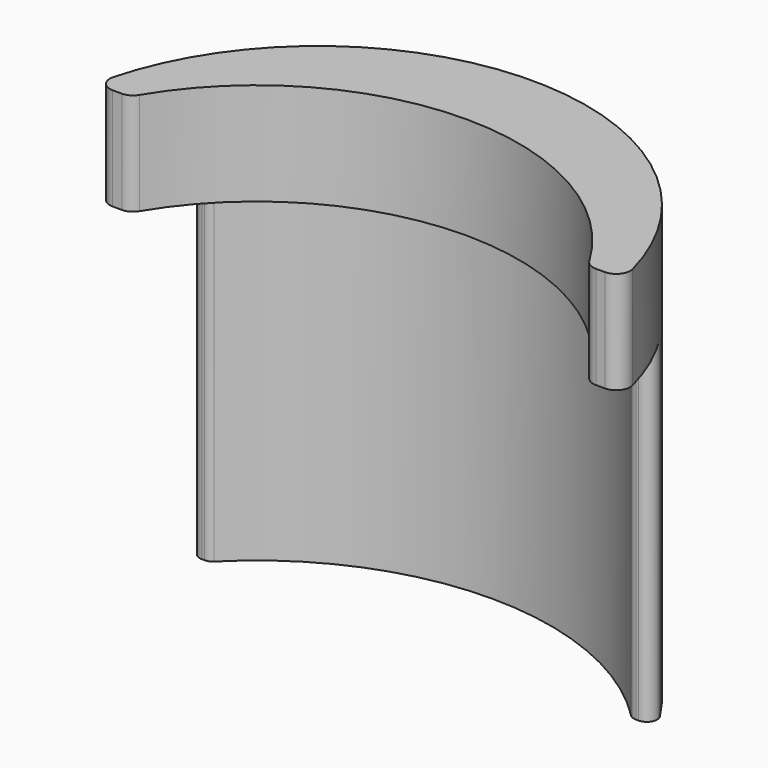
from build123d import *

# Parameters (mm, degrees)
BOX002_W          = 30
BOX002_H          = 10
BOX002_DEPTH      = 13
BOX001_W          = 30
BOX001_H          = 10
BOX001_DEPTH      = 17
CYLINDER_R        = 10.5
CYLINDER_DEPTH    = 20
CYLINDER001_R     = 20
CYLINDER001_DEPTH = 20
CYLINDER003_R     = 10.25
CYLINDER003_DEPTH = 17
CYLINDER002_R     = 11.5
CYLINDER002_DEPTH = 13
BOX_W             = 26
BOX_H             = 15
BOX_DEPTH         = 17
FILLET_R          = 0.4
FILLET001_R       = 0.55
FILLET002_R       = 0.55


with BuildPart() as cube002:
    # Box002 → Box002 (new body)
    with BuildSketch(Plane(origin=(-15, -5, 0), x_dir=(1, 0, 0), z_dir=(0, 0, 1))):
        with Locations((15, 5)):
            Rectangle(BOX002_W, BOX002_H)
    extrude(amount=BOX002_DEPTH)


with BuildPart() as cube001:
    # Box001 → Box001 (new body)
    with BuildSketch(Plane(origin=(-15, -8, 0), x_dir=(1, 0, 0), z_dir=(0, 0, 1))):
        with Locations((15, 5)):
            Rectangle(BOX001_W, BOX001_H)
    extrude(amount=BOX001_DEPTH)


with BuildPart() as obj1:
    # Cylinder → Cylinder (new body)
    with BuildSketch(Plane.XY):
        Circle(CYLINDER_R)
    extrude(amount=CYLINDER_DEPTH)


with BuildPart() as cut:
    # Cylinder001 → Cylinder001 (new body)
    with BuildSketch(Plane.XY):
        Circle(CYLINDER001_R)
    extrude(amount=CYLINDER001_DEPTH)

    # Cut: cut obj1
    add(obj1.part, mode=Mode.SUBTRACT)


with BuildPart() as cylinder003:
    # Cylinder003 → Cylinder003 (new body)
    with BuildSketch(Plane(origin=(0, -3, 0), x_dir=(1, 0, 0), z_dir=(0, 0, 1))):
        Circle(CYLINDER003_R)
    extrude(amount=CYLINDER003_DEPTH)


with BuildPart() as fusion:
    # Cylinder002 → Cylinder002 (new body)
    with BuildSketch(Plane(origin=(0, -3, 0), x_dir=(1, 0, 0), z_dir=(0, 0, 1))):
        Circle(CYLINDER002_R)
    extrude(amount=CYLINDER002_DEPTH)

    # Fusion: union Cylinder003
    add(cylinder003.part)


with BuildPart() as fillet002:
    # Box → Box (new body)
    with BuildSketch(Plane(origin=(-13, -2, 0), x_dir=(1, 0, 0), z_dir=(0, 0, 1))):
        with Locations((13, 7.5)):
            Rectangle(BOX_W, BOX_H)
    extrude(amount=BOX_DEPTH)

    # Cut001: cut Fusion
    add(fusion.part, mode=Mode.SUBTRACT)

    # Cut002: cut Cut
    add(cut.part, mode=Mode.SUBTRACT)

    # Cut002003: cut Cube001
    add(cube001.part, mode=Mode.SUBTRACT)

    # Cut002004: cut Cube002
    add(cube002.part, mode=Mode.SUBTRACT)

    # Fillet
    fillet_edges = [fillet002.edges().sort_by_distance(p)[0] for p in [
        (-9.233093, 5, 6.5),
        (9.233093, 5, 6.5),
        (-8.261356, 5, 6.5),
        (8.261356, 5, 6.5),
    ]]
    fillet(fillet_edges, radius=FILLET_R)

    # Fillet001
    fillet001_edges = [fillet002.edges().sort_by_distance(p)[0] for p in [
        (10.307764, 2, 15),
        (8.947765, 2, 15),
    ]]
    fillet(fillet001_edges, radius=FILLET001_R)

    # Fillet002
    fillet002_edges = [fillet002.edges().sort_by_distance(p)[0] for p in [
        (-10.307764, 2, 15),
        (-8.947765, 2, 15),
    ]]
    fillet(fillet002_edges, radius=FILLET002_R)


solid = fillet002.part
